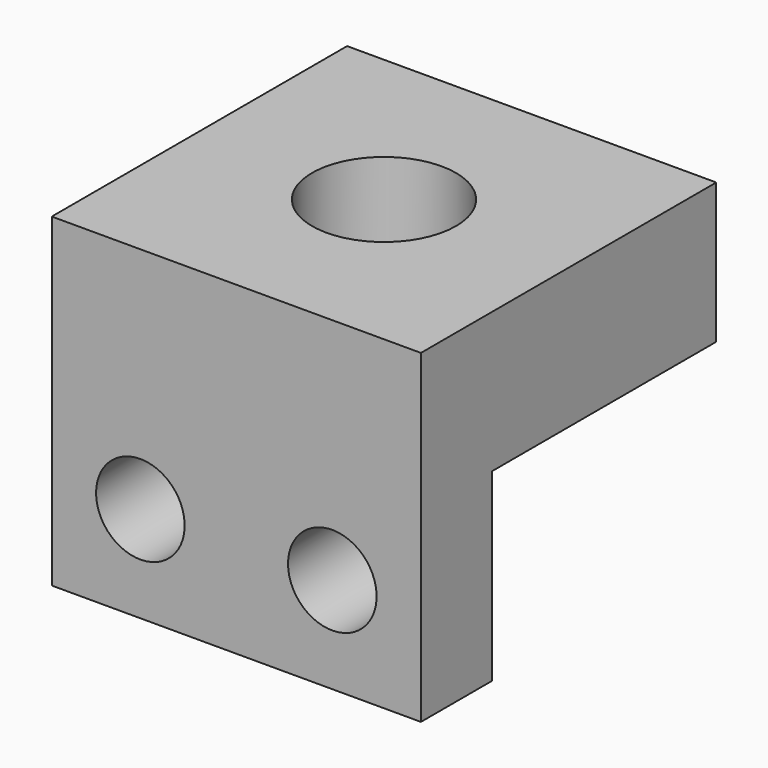
from build123d import *

# Parameters (mm, degrees)
F0_W     = 50
F0_H     = 50
F0_R     = 9.75
F1_DEPTH = 19
F2_W     = 50
F2_H     = 12
F3_DEPTH = 25
F4_R     = 6
F5_DEPTH = 12.001


with BuildPart() as f1:
    # F0 (on Top) → F1 (new body)
    with BuildSketch(Plane.XY):
        with Locations((25, 25)):
            Rectangle(F0_W, F0_H)
        with Locations((25, 25)):
            Circle(F0_R, mode=Mode.SUBTRACT)
    extrude(amount=F1_DEPTH)

    # F2 (on face) → F3 (join)
    with BuildSketch(Plane(origin=(0, 0, 0), x_dir=(1, 0, 0), z_dir=(0, 0, -1))):
        with Locations((25, -6)):
            Rectangle(F2_W, F2_H)
    extrude(amount=F3_DEPTH)

    # F4 (on face) → F5 (cut, through all)
    with BuildSketch(Plane(origin=(0, 12, 0), x_dir=(-1, 0, 0), z_dir=(0, 1, 0))):
        with Locations((-38, -12)):
            Circle(F4_R)
        with Locations((-12, -12)):
            Circle(F4_R)
    extrude(amount=-F5_DEPTH, mode=Mode.SUBTRACT)


solid = f1.part
